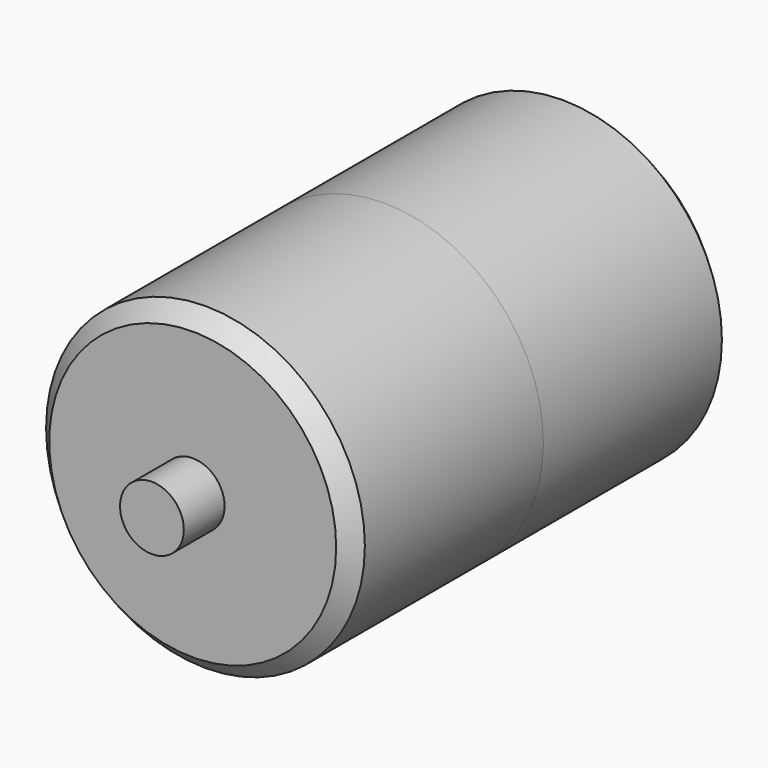
from build123d import *

# Parameters (mm, degrees)
F0_R     = 50
F1_DEPTH = 75
F2_R     = 50
F3_DEPTH = 75
F4_R     = 10
F5_DEPTH = 16
F6_R     = 10
F7_DEPTH = 16
F8_SIZE2 = 5
F8_SIZE  = 5
F9_SIZE2 = 5
F9_SIZE  = 5


with BuildPart() as f1:
    # F0 (on Front) → F1 (new body)
    with BuildSketch(Plane.XZ):
        Circle(F0_R)
    extrude(amount=F1_DEPTH)

    # F2 (on face) → F3 (join)
    with BuildSketch(Plane(origin=(0, 0, 0), x_dir=(-1, 0, 0), z_dir=(0, 1, 0))):
        Circle(F2_R)
    extrude(amount=F3_DEPTH)

    # F4 (on face) → F5 (join)
    with BuildSketch(Plane.XZ.offset(75)):
        Circle(F4_R)
    extrude(amount=F5_DEPTH)

    # F6 (on face) → F7 (join)
    with BuildSketch(Plane(origin=(0, 75, 0), x_dir=(-1, 0, 0), z_dir=(0, 1, 0))):
        Circle(F6_R)
    extrude(amount=F7_DEPTH)

    # F8
    f8_edges = [f1.edges().sort_by_distance(p)[0] for p in [
        (-50, -75, 0),
    ]]
    chamfer(f8_edges, length=F8_SIZE, length2=F8_SIZE2)

    # F9
    f9_edges = [f1.edges().sort_by_distance(p)[0] for p in [
        (50, 75, 0),
    ]]
    chamfer(f9_edges, length=F9_SIZE, length2=F9_SIZE2)


solid = f1.part
